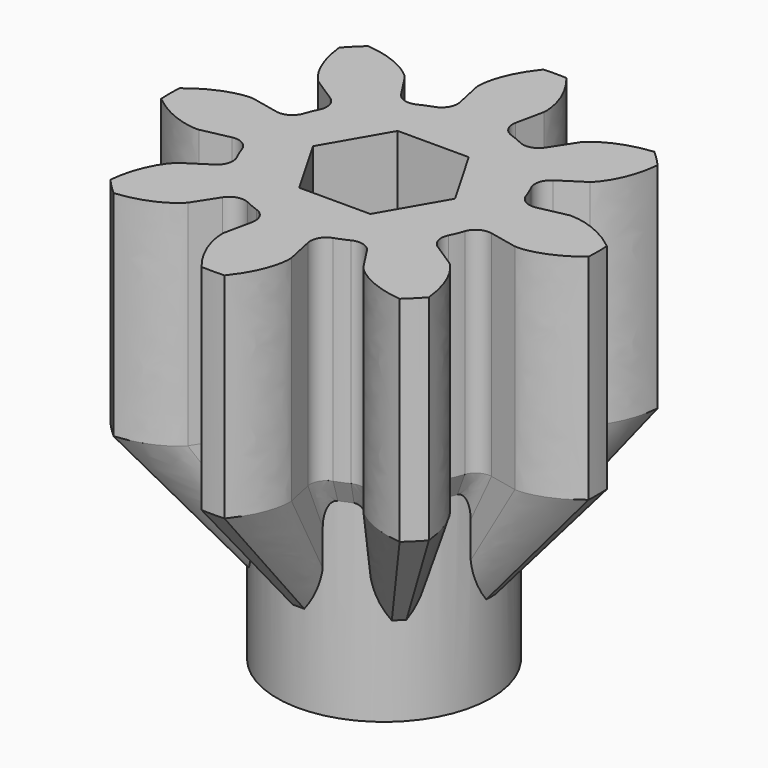
from build123d import *

# Parameters (mm, degrees)
SKETCH_R     = 5
PAD_DEPTH    = 20
PAD001_DEPTH = 10
POCKET_DEPTH = 20.001


with BuildPart() as part:
    # Sketch → Pad (new body)
    with BuildSketch(Plane.XY):
        Circle(SKETCH_R)
    extrude(amount=PAD_DEPTH)

    # InvoluteGear (on DatumPlane) → AdditiveLoft section 0
    with BuildSketch(Plane.XY.offset(3)):
        with BuildLine():
            Line((2.426758, -0.520427), (2.951752, -0.632306))
            add(Edge.make_bspline(
                [(2.951752, -0.632306), (3.003653, -0.636405), (3.211778, -0.646103), (3.585004, -0.547707), (3.994176, -0.214553)],
                knots=[0, 0, 0, 0, 0, 1, 1, 1, 1, 1], degree=4))
            ThreePointArc((3.994176, -0.214553), (3.999935, 0), (3.994176, 0.214553))
            add(Edge.make_bspline(
                [(3.994176, 0.214553), (3.585004, 0.547707), (3.211778, 0.646103), (3.003653, 0.636405), (2.951752, 0.632306)],
                knots=[0, 0, 0, 0, 0, 1, 1, 1, 1, 1], degree=4))
            Line((2.951752, 0.632306), (2.426758, 0.520427))
            ThreePointArc((2.426758, 0.520427), (2.217175, 0.552055), (2.080806, 0.714316))
            ThreePointArc((2.080806, 0.714316), (2.032535, 0.841904), (1.976449, 0.966254))
            ThreePointArc((1.976449, 0.966254), (1.958141, 1.177418), (2.083975, 1.34798))
            Line((2.083975, 1.34798), (2.534312, 1.640096))
            add(Edge.make_bspline(
                [(2.534312, 1.640096), (2.573909, 1.673897), (2.727934, 1.814206), (2.922268, 2.147693), (2.976021, 2.672597)],
                knots=[0, 0, 0, 0, 0, 1, 1, 1, 1, 1], degree=4))
            ThreePointArc((2.976021, 2.672597), (2.828381, 2.828381), (2.672597, 2.976021))
            add(Edge.make_bspline(
                [(2.672597, 2.976021), (2.147693, 2.922268), (1.814206, 2.727934), (1.673897, 2.573909), (1.640096, 2.534312)],
                knots=[0, 0, 0, 0, 0, 1, 1, 1, 1, 1], degree=4))
            Line((1.640096, 2.534312), (1.34798, 2.083975))
            ThreePointArc((1.34798, 2.083975), (1.177418, 1.958141), (0.966254, 1.976449))
            ThreePointArc((0.966254, 1.976449), (0.841904, 2.032535), (0.714316, 2.080806))
            ThreePointArc((0.714316, 2.080806), (0.552055, 2.217175), (0.520427, 2.426758))
            Line((0.520427, 2.426758), (0.632306, 2.951752))
            add(Edge.make_bspline(
                [(0.632306, 2.951752), (0.636405, 3.003653), (0.646103, 3.211778), (0.547707, 3.585004), (0.214553, 3.994176)],
                knots=[0, 0, 0, 0, 0, 1, 1, 1, 1, 1], degree=4))
            ThreePointArc((0.214553, 3.994176), (0, 3.999935), (-0.214553, 3.994176))
            add(Edge.make_bspline(
                [(-0.214553, 3.994176), (-0.547707, 3.585004), (-0.646103, 3.211778), (-0.636405, 3.003653), (-0.632306, 2.951752)],
                knots=[0, 0, 0, 0, 0, 1, 1, 1, 1, 1], degree=4))
            Line((-0.632306, 2.951752), (-0.520427, 2.426758))
            ThreePointArc((-0.520427, 2.426758), (-0.552055, 2.217175), (-0.714316, 2.080806))
            ThreePointArc((-0.714316, 2.080806), (-0.841904, 2.032535), (-0.966254, 1.976449))
            ThreePointArc((-0.966254, 1.976449), (-1.177418, 1.958141), (-1.34798, 2.083975))
            Line((-1.34798, 2.083975), (-1.640096, 2.534312))
            add(Edge.make_bspline(
                [(-1.640096, 2.534312), (-1.673897, 2.573909), (-1.814206, 2.727934), (-2.147693, 2.922268), (-2.672597, 2.976021)],
                knots=[0, 0, 0, 0, 0, 1, 1, 1, 1, 1], degree=4))
            ThreePointArc((-2.672597, 2.976021), (-2.828381, 2.828381), (-2.976021, 2.672597))
            add(Edge.make_bspline(
                [(-2.976021, 2.672597), (-2.922268, 2.147693), (-2.727934, 1.814206), (-2.573909, 1.673897), (-2.534312, 1.640096)],
                knots=[0, 0, 0, 0, 0, 1, 1, 1, 1, 1], degree=4))
            Line((-2.534312, 1.640096), (-2.083975, 1.34798))
            ThreePointArc((-2.083975, 1.34798), (-1.958141, 1.177418), (-1.976449, 0.966254))
            ThreePointArc((-1.976449, 0.966254), (-2.032535, 0.841904), (-2.080806, 0.714316))
            ThreePointArc((-2.080806, 0.714316), (-2.217175, 0.552055), (-2.426758, 0.520427))
            Line((-2.426758, 0.520427), (-2.951752, 0.632306))
            add(Edge.make_bspline(
                [(-2.951752, 0.632306), (-3.003653, 0.636405), (-3.211778, 0.646103), (-3.585004, 0.547707), (-3.994176, 0.214553)],
                knots=[0, 0, 0, 0, 0, 1, 1, 1, 1, 1], degree=4))
            ThreePointArc((-3.994176, 0.214553), (-3.999935, 0), (-3.994176, -0.214553))
            add(Edge.make_bspline(
                [(-3.994176, -0.214553), (-3.585004, -0.547707), (-3.211778, -0.646103), (-3.003653, -0.636405), (-2.951752, -0.632306)],
                knots=[0, 0, 0, 0, 0, 1, 1, 1, 1, 1], degree=4))
            Line((-2.951752, -0.632306), (-2.426758, -0.520427))
            ThreePointArc((-2.426758, -0.520427), (-2.217175, -0.552055), (-2.080806, -0.714316))
            ThreePointArc((-2.080806, -0.714316), (-2.032535, -0.841904), (-1.976449, -0.966254))
            ThreePointArc((-1.976449, -0.966254), (-1.958141, -1.177418), (-2.083975, -1.34798))
            Line((-2.083975, -1.34798), (-2.534312, -1.640096))
            add(Edge.make_bspline(
                [(-2.534312, -1.640096), (-2.573909, -1.673897), (-2.727934, -1.814206), (-2.922268, -2.147693), (-2.976021, -2.672597)],
                knots=[0, 0, 0, 0, 0, 1, 1, 1, 1, 1], degree=4))
            ThreePointArc((-2.976021, -2.672597), (-2.828381, -2.828381), (-2.672597, -2.976021))
            add(Edge.make_bspline(
                [(-2.672597, -2.976021), (-2.147693, -2.922268), (-1.814206, -2.727934), (-1.673897, -2.573909), (-1.640096, -2.534312)],
                knots=[0, 0, 0, 0, 0, 1, 1, 1, 1, 1], degree=4))
            Line((-1.640096, -2.534312), (-1.34798, -2.083975))
            ThreePointArc((-1.34798, -2.083975), (-1.177418, -1.958141), (-0.966254, -1.976449))
            ThreePointArc((-0.966254, -1.976449), (-0.841904, -2.032535), (-0.714316, -2.080806))
            ThreePointArc((-0.714316, -2.080806), (-0.552055, -2.217175), (-0.520427, -2.426758))
            Line((-0.520427, -2.426758), (-0.632306, -2.951752))
            add(Edge.make_bspline(
                [(-0.632306, -2.951752), (-0.636405, -3.003653), (-0.646103, -3.211778), (-0.547707, -3.585004), (-0.214553, -3.994176)],
                knots=[0, 0, 0, 0, 0, 1, 1, 1, 1, 1], degree=4))
            ThreePointArc((-0.214553, -3.994176), (0, -3.999935), (0.214553, -3.994176))
            add(Edge.make_bspline(
                [(0.214553, -3.994176), (0.547707, -3.585004), (0.646103, -3.211778), (0.636405, -3.003653), (0.632306, -2.951752)],
                knots=[0, 0, 0, 0, 0, 1, 1, 1, 1, 1], degree=4))
            Line((0.632306, -2.951752), (0.520427, -2.426758))
            ThreePointArc((0.520427, -2.426758), (0.552055, -2.217175), (0.714316, -2.080806))
            ThreePointArc((0.714316, -2.080806), (0.841904, -2.032535), (0.966254, -1.976449))
            ThreePointArc((0.966254, -1.976449), (1.177418, -1.958141), (1.34798, -2.083975))
            Line((1.34798, -2.083975), (1.640096, -2.534312))
            add(Edge.make_bspline(
                [(1.640096, -2.534312), (1.673897, -2.573909), (1.814206, -2.727934), (2.147693, -2.922268), (2.672597, -2.976021)],
                knots=[0, 0, 0, 0, 0, 1, 1, 1, 1, 1], degree=4))
            ThreePointArc((2.672597, -2.976021), (2.828381, -2.828381), (2.976021, -2.672597))
            add(Edge.make_bspline(
                [(2.976021, -2.672597), (2.922268, -2.147693), (2.727934, -1.814206), (2.573909, -1.673897), (2.534312, -1.640096)],
                knots=[0, 0, 0, 0, 0, 1, 1, 1, 1, 1], degree=4))
            Line((2.534312, -1.640096), (2.083975, -1.34798))
            ThreePointArc((2.083975, -1.34798), (1.958141, -1.177418), (1.976449, -0.966254))
            ThreePointArc((1.976449, -0.966254), (2.032535, -0.841904), (2.080806, -0.714316))
            ThreePointArc((2.080806, -0.714316), (2.217175, -0.552055), (2.426758, -0.520427))
        make_face()
    # InvoluteGear001 (on DatumPlane) → AdditiveLoft section 1
    with BuildSketch(Plane.XY.offset(10)):
        with BuildLine():
            Line((6.066896, -1.301068), (7.379379, -1.580765))
            add(Edge.make_bspline(
                [(7.379379, -1.580765), (7.509132, -1.591012), (8.029445, -1.615258), (8.962509, -1.369267), (9.985441, -0.536383)],
                knots=[0, 0, 0, 0, 0, 1, 1, 1, 1, 1], degree=4))
            ThreePointArc((9.985441, -0.536383), (9.999836, 0), (9.985441, 0.536383))
            add(Edge.make_bspline(
                [(9.985441, 0.536383), (8.962509, 1.369267), (8.029445, 1.615258), (7.509132, 1.591012), (7.379379, 1.580765)],
                knots=[0, 0, 0, 0, 0, 1, 1, 1, 1, 1], degree=4))
            Line((7.379379, 1.580765), (6.066896, 1.301068))
            ThreePointArc((6.066896, 1.301068), (5.542938, 1.380137), (5.202015, 1.785789))
            ThreePointArc((5.202015, 1.785789), (5.081337, 2.104759), (4.941124, 2.415636))
            ThreePointArc((4.941124, 2.415636), (4.895353, 2.943545), (5.209937, 3.369949))
            Line((5.209937, 3.369949), (6.335779, 4.100239))
            add(Edge.make_bspline(
                [(6.335779, 4.100239), (6.434773, 4.184743), (6.819835, 4.535515), (7.305669, 5.369233), (7.440053, 6.681493)],
                knots=[0, 0, 0, 0, 0, 1, 1, 1, 1, 1], degree=4))
            ThreePointArc((7.440053, 6.681493), (7.070952, 7.070952), (6.681493, 7.440053))
            add(Edge.make_bspline(
                [(6.681493, 7.440053), (5.369233, 7.305669), (4.535515, 6.819835), (4.184743, 6.434773), (4.100239, 6.335779)],
                knots=[0, 0, 0, 0, 0, 1, 1, 1, 1, 1], degree=4))
            Line((4.100239, 6.335779), (3.369949, 5.209937))
            ThreePointArc((3.369949, 5.209937), (2.943545, 4.895353), (2.415636, 4.941124))
            ThreePointArc((2.415636, 4.941124), (2.104759, 5.081337), (1.785789, 5.202015))
            ThreePointArc((1.785789, 5.202015), (1.380137, 5.542938), (1.301068, 6.066896))
            Line((1.301068, 6.066896), (1.580765, 7.379379))
            add(Edge.make_bspline(
                [(1.580765, 7.379379), (1.591012, 7.509132), (1.615258, 8.029445), (1.369267, 8.962509), (0.536383, 9.985441)],
                knots=[0, 0, 0, 0, 0, 1, 1, 1, 1, 1], degree=4))
            ThreePointArc((0.536383, 9.985441), (0, 9.999836), (-0.536383, 9.985441))
            add(Edge.make_bspline(
                [(-0.536383, 9.985441), (-1.369267, 8.962509), (-1.615258, 8.029445), (-1.591012, 7.509132), (-1.580765, 7.379379)],
                knots=[0, 0, 0, 0, 0, 1, 1, 1, 1, 1], degree=4))
            Line((-1.580765, 7.379379), (-1.301068, 6.066896))
            ThreePointArc((-1.301068, 6.066896), (-1.380137, 5.542938), (-1.785789, 5.202015))
            ThreePointArc((-1.785789, 5.202015), (-2.104759, 5.081337), (-2.415636, 4.941124))
            ThreePointArc((-2.415636, 4.941124), (-2.943545, 4.895353), (-3.369949, 5.209937))
            Line((-3.369949, 5.209937), (-4.100239, 6.335779))
            add(Edge.make_bspline(
                [(-4.100239, 6.335779), (-4.184743, 6.434773), (-4.535515, 6.819835), (-5.369233, 7.305669), (-6.681493, 7.440053)],
                knots=[0, 0, 0, 0, 0, 1, 1, 1, 1, 1], degree=4))
            ThreePointArc((-6.681493, 7.440053), (-7.070952, 7.070952), (-7.440053, 6.681493))
            add(Edge.make_bspline(
                [(-7.440053, 6.681493), (-7.305669, 5.369233), (-6.819835, 4.535515), (-6.434773, 4.184743), (-6.335779, 4.100239)],
                knots=[0, 0, 0, 0, 0, 1, 1, 1, 1, 1], degree=4))
            Line((-6.335779, 4.100239), (-5.209937, 3.369949))
            ThreePointArc((-5.209937, 3.369949), (-4.895353, 2.943545), (-4.941124, 2.415636))
            ThreePointArc((-4.941124, 2.415636), (-5.081337, 2.104759), (-5.202015, 1.785789))
            ThreePointArc((-5.202015, 1.785789), (-5.542938, 1.380137), (-6.066896, 1.301068))
            Line((-6.066896, 1.301068), (-7.379379, 1.580765))
            add(Edge.make_bspline(
                [(-7.379379, 1.580765), (-7.509132, 1.591012), (-8.029445, 1.615258), (-8.962509, 1.369267), (-9.985441, 0.536383)],
                knots=[0, 0, 0, 0, 0, 1, 1, 1, 1, 1], degree=4))
            ThreePointArc((-9.985441, 0.536383), (-9.999836, 0), (-9.985441, -0.536383))
            add(Edge.make_bspline(
                [(-9.985441, -0.536383), (-8.962509, -1.369267), (-8.029445, -1.615258), (-7.509132, -1.591012), (-7.379379, -1.580765)],
                knots=[0, 0, 0, 0, 0, 1, 1, 1, 1, 1], degree=4))
            Line((-7.379379, -1.580765), (-6.066896, -1.301068))
            ThreePointArc((-6.066896, -1.301068), (-5.542938, -1.380137), (-5.202015, -1.785789))
            ThreePointArc((-5.202015, -1.785789), (-5.081337, -2.104759), (-4.941124, -2.415636))
            ThreePointArc((-4.941124, -2.415636), (-4.895353, -2.943545), (-5.209937, -3.369949))
            Line((-5.209937, -3.369949), (-6.335779, -4.100239))
            add(Edge.make_bspline(
                [(-6.335779, -4.100239), (-6.434773, -4.184743), (-6.819835, -4.535515), (-7.305669, -5.369233), (-7.440053, -6.681493)],
                knots=[0, 0, 0, 0, 0, 1, 1, 1, 1, 1], degree=4))
            ThreePointArc((-7.440053, -6.681493), (-7.070952, -7.070952), (-6.681493, -7.440053))
            add(Edge.make_bspline(
                [(-6.681493, -7.440053), (-5.369233, -7.305669), (-4.535515, -6.819835), (-4.184743, -6.434773), (-4.100239, -6.335779)],
                knots=[0, 0, 0, 0, 0, 1, 1, 1, 1, 1], degree=4))
            Line((-4.100239, -6.335779), (-3.369949, -5.209937))
            ThreePointArc((-3.369949, -5.209937), (-2.943545, -4.895353), (-2.415636, -4.941124))
            ThreePointArc((-2.415636, -4.941124), (-2.104759, -5.081337), (-1.785789, -5.202015))
            ThreePointArc((-1.785789, -5.202015), (-1.380137, -5.542938), (-1.301068, -6.066896))
            Line((-1.301068, -6.066896), (-1.580765, -7.379379))
            add(Edge.make_bspline(
                [(-1.580765, -7.379379), (-1.591012, -7.509132), (-1.615258, -8.029445), (-1.369267, -8.962509), (-0.536383, -9.985441)],
                knots=[0, 0, 0, 0, 0, 1, 1, 1, 1, 1], degree=4))
            ThreePointArc((-0.536383, -9.985441), (0, -9.999836), (0.536383, -9.985441))
            add(Edge.make_bspline(
                [(0.536383, -9.985441), (1.369267, -8.962509), (1.615258, -8.029445), (1.591012, -7.509132), (1.580765, -7.379379)],
                knots=[0, 0, 0, 0, 0, 1, 1, 1, 1, 1], degree=4))
            Line((1.580765, -7.379379), (1.301068, -6.066896))
            ThreePointArc((1.301068, -6.066896), (1.380137, -5.542938), (1.785789, -5.202015))
            ThreePointArc((1.785789, -5.202015), (2.104759, -5.081337), (2.415636, -4.941124))
            ThreePointArc((2.415636, -4.941124), (2.943545, -4.895353), (3.369949, -5.209937))
            Line((3.369949, -5.209937), (4.100239, -6.335779))
            add(Edge.make_bspline(
                [(4.100239, -6.335779), (4.184743, -6.434773), (4.535515, -6.819835), (5.369233, -7.305669), (6.681493, -7.440053)],
                knots=[0, 0, 0, 0, 0, 1, 1, 1, 1, 1], degree=4))
            ThreePointArc((6.681493, -7.440053), (7.070952, -7.070952), (7.440053, -6.681493))
            add(Edge.make_bspline(
                [(7.440053, -6.681493), (7.305669, -5.369233), (6.819835, -4.535515), (6.434773, -4.184743), (6.335779, -4.100239)],
                knots=[0, 0, 0, 0, 0, 1, 1, 1, 1, 1], degree=4))
            Line((6.335779, -4.100239), (5.209937, -3.369949))
            ThreePointArc((5.209937, -3.369949), (4.895353, -2.943545), (4.941124, -2.415636))
            ThreePointArc((4.941124, -2.415636), (5.081337, -2.104759), (5.202015, -1.785789))
            ThreePointArc((5.202015, -1.785789), (5.542938, -1.380137), (6.066896, -1.301068))
        make_face()
    loft()

    # InvoluteGear001 (on DatumPlane) → Pad001 (join)
    with BuildSketch(Plane.XY.offset(10)):
        with BuildLine():
            Line((6.066896, -1.301068), (7.379379, -1.580765))
            add(Edge.make_bspline(
                [(7.379379, -1.580765), (7.509132, -1.591012), (8.029445, -1.615258), (8.962509, -1.369267), (9.985441, -0.536383)],
                knots=[0, 0, 0, 0, 0, 1, 1, 1, 1, 1], degree=4))
            ThreePointArc((9.985441, -0.536383), (9.999836, 0), (9.985441, 0.536383))
            add(Edge.make_bspline(
                [(9.985441, 0.536383), (8.962509, 1.369267), (8.029445, 1.615258), (7.509132, 1.591012), (7.379379, 1.580765)],
                knots=[0, 0, 0, 0, 0, 1, 1, 1, 1, 1], degree=4))
            Line((7.379379, 1.580765), (6.066896, 1.301068))
            ThreePointArc((6.066896, 1.301068), (5.542938, 1.380137), (5.202015, 1.785789))
            ThreePointArc((5.202015, 1.785789), (5.081337, 2.104759), (4.941124, 2.415636))
            ThreePointArc((4.941124, 2.415636), (4.895353, 2.943545), (5.209937, 3.369949))
            Line((5.209937, 3.369949), (6.335779, 4.100239))
            add(Edge.make_bspline(
                [(6.335779, 4.100239), (6.434773, 4.184743), (6.819835, 4.535515), (7.305669, 5.369233), (7.440053, 6.681493)],
                knots=[0, 0, 0, 0, 0, 1, 1, 1, 1, 1], degree=4))
            ThreePointArc((7.440053, 6.681493), (7.070952, 7.070952), (6.681493, 7.440053))
            add(Edge.make_bspline(
                [(6.681493, 7.440053), (5.369233, 7.305669), (4.535515, 6.819835), (4.184743, 6.434773), (4.100239, 6.335779)],
                knots=[0, 0, 0, 0, 0, 1, 1, 1, 1, 1], degree=4))
            Line((4.100239, 6.335779), (3.369949, 5.209937))
            ThreePointArc((3.369949, 5.209937), (2.943545, 4.895353), (2.415636, 4.941124))
            ThreePointArc((2.415636, 4.941124), (2.104759, 5.081337), (1.785789, 5.202015))
            ThreePointArc((1.785789, 5.202015), (1.380137, 5.542938), (1.301068, 6.066896))
            Line((1.301068, 6.066896), (1.580765, 7.379379))
            add(Edge.make_bspline(
                [(1.580765, 7.379379), (1.591012, 7.509132), (1.615258, 8.029445), (1.369267, 8.962509), (0.536383, 9.985441)],
                knots=[0, 0, 0, 0, 0, 1, 1, 1, 1, 1], degree=4))
            ThreePointArc((0.536383, 9.985441), (0, 9.999836), (-0.536383, 9.985441))
            add(Edge.make_bspline(
                [(-0.536383, 9.985441), (-1.369267, 8.962509), (-1.615258, 8.029445), (-1.591012, 7.509132), (-1.580765, 7.379379)],
                knots=[0, 0, 0, 0, 0, 1, 1, 1, 1, 1], degree=4))
            Line((-1.580765, 7.379379), (-1.301068, 6.066896))
            ThreePointArc((-1.301068, 6.066896), (-1.380137, 5.542938), (-1.785789, 5.202015))
            ThreePointArc((-1.785789, 5.202015), (-2.104759, 5.081337), (-2.415636, 4.941124))
            ThreePointArc((-2.415636, 4.941124), (-2.943545, 4.895353), (-3.369949, 5.209937))
            Line((-3.369949, 5.209937), (-4.100239, 6.335779))
            add(Edge.make_bspline(
                [(-4.100239, 6.335779), (-4.184743, 6.434773), (-4.535515, 6.819835), (-5.369233, 7.305669), (-6.681493, 7.440053)],
                knots=[0, 0, 0, 0, 0, 1, 1, 1, 1, 1], degree=4))
            ThreePointArc((-6.681493, 7.440053), (-7.070952, 7.070952), (-7.440053, 6.681493))
            add(Edge.make_bspline(
                [(-7.440053, 6.681493), (-7.305669, 5.369233), (-6.819835, 4.535515), (-6.434773, 4.184743), (-6.335779, 4.100239)],
                knots=[0, 0, 0, 0, 0, 1, 1, 1, 1, 1], degree=4))
            Line((-6.335779, 4.100239), (-5.209937, 3.369949))
            ThreePointArc((-5.209937, 3.369949), (-4.895353, 2.943545), (-4.941124, 2.415636))
            ThreePointArc((-4.941124, 2.415636), (-5.081337, 2.104759), (-5.202015, 1.785789))
            ThreePointArc((-5.202015, 1.785789), (-5.542938, 1.380137), (-6.066896, 1.301068))
            Line((-6.066896, 1.301068), (-7.379379, 1.580765))
            add(Edge.make_bspline(
                [(-7.379379, 1.580765), (-7.509132, 1.591012), (-8.029445, 1.615258), (-8.962509, 1.369267), (-9.985441, 0.536383)],
                knots=[0, 0, 0, 0, 0, 1, 1, 1, 1, 1], degree=4))
            ThreePointArc((-9.985441, 0.536383), (-9.999836, 0), (-9.985441, -0.536383))
            add(Edge.make_bspline(
                [(-9.985441, -0.536383), (-8.962509, -1.369267), (-8.029445, -1.615258), (-7.509132, -1.591012), (-7.379379, -1.580765)],
                knots=[0, 0, 0, 0, 0, 1, 1, 1, 1, 1], degree=4))
            Line((-7.379379, -1.580765), (-6.066896, -1.301068))
            ThreePointArc((-6.066896, -1.301068), (-5.542938, -1.380137), (-5.202015, -1.785789))
            ThreePointArc((-5.202015, -1.785789), (-5.081337, -2.104759), (-4.941124, -2.415636))
            ThreePointArc((-4.941124, -2.415636), (-4.895353, -2.943545), (-5.209937, -3.369949))
            Line((-5.209937, -3.369949), (-6.335779, -4.100239))
            add(Edge.make_bspline(
                [(-6.335779, -4.100239), (-6.434773, -4.184743), (-6.819835, -4.535515), (-7.305669, -5.369233), (-7.440053, -6.681493)],
                knots=[0, 0, 0, 0, 0, 1, 1, 1, 1, 1], degree=4))
            ThreePointArc((-7.440053, -6.681493), (-7.070952, -7.070952), (-6.681493, -7.440053))
            add(Edge.make_bspline(
                [(-6.681493, -7.440053), (-5.369233, -7.305669), (-4.535515, -6.819835), (-4.184743, -6.434773), (-4.100239, -6.335779)],
                knots=[0, 0, 0, 0, 0, 1, 1, 1, 1, 1], degree=4))
            Line((-4.100239, -6.335779), (-3.369949, -5.209937))
            ThreePointArc((-3.369949, -5.209937), (-2.943545, -4.895353), (-2.415636, -4.941124))
            ThreePointArc((-2.415636, -4.941124), (-2.104759, -5.081337), (-1.785789, -5.202015))
            ThreePointArc((-1.785789, -5.202015), (-1.380137, -5.542938), (-1.301068, -6.066896))
            Line((-1.301068, -6.066896), (-1.580765, -7.379379))
            add(Edge.make_bspline(
                [(-1.580765, -7.379379), (-1.591012, -7.509132), (-1.615258, -8.029445), (-1.369267, -8.962509), (-0.536383, -9.985441)],
                knots=[0, 0, 0, 0, 0, 1, 1, 1, 1, 1], degree=4))
            ThreePointArc((-0.536383, -9.985441), (0, -9.999836), (0.536383, -9.985441))
            add(Edge.make_bspline(
                [(0.536383, -9.985441), (1.369267, -8.962509), (1.615258, -8.029445), (1.591012, -7.509132), (1.580765, -7.379379)],
                knots=[0, 0, 0, 0, 0, 1, 1, 1, 1, 1], degree=4))
            Line((1.580765, -7.379379), (1.301068, -6.066896))
            ThreePointArc((1.301068, -6.066896), (1.380137, -5.542938), (1.785789, -5.202015))
            ThreePointArc((1.785789, -5.202015), (2.104759, -5.081337), (2.415636, -4.941124))
            ThreePointArc((2.415636, -4.941124), (2.943545, -4.895353), (3.369949, -5.209937))
            Line((3.369949, -5.209937), (4.100239, -6.335779))
            add(Edge.make_bspline(
                [(4.100239, -6.335779), (4.184743, -6.434773), (4.535515, -6.819835), (5.369233, -7.305669), (6.681493, -7.440053)],
                knots=[0, 0, 0, 0, 0, 1, 1, 1, 1, 1], degree=4))
            ThreePointArc((6.681493, -7.440053), (7.070952, -7.070952), (7.440053, -6.681493))
            add(Edge.make_bspline(
                [(7.440053, -6.681493), (7.305669, -5.369233), (6.819835, -4.535515), (6.434773, -4.184743), (6.335779, -4.100239)],
                knots=[0, 0, 0, 0, 0, 1, 1, 1, 1, 1], degree=4))
            Line((6.335779, -4.100239), (5.209937, -3.369949))
            ThreePointArc((5.209937, -3.369949), (4.895353, -2.943545), (4.941124, -2.415636))
            ThreePointArc((4.941124, -2.415636), (5.081337, -2.104759), (5.202015, -1.785789))
            ThreePointArc((5.202015, -1.785789), (5.542938, -1.380137), (6.066896, -1.301068))
        make_face()
    extrude(amount=PAD001_DEPTH)

    # Sketch001 → Pocket (cut, through all)
    with BuildSketch(Plane.XY):
        Polygon((3.319764, 0), (1.659882, 2.875), (-1.659882, 2.875), (-3.319764, 0), (-1.659882, -2.875), (1.659882, -2.875), align=None)
    extrude(amount=POCKET_DEPTH, mode=Mode.SUBTRACT)


solid = part.part
